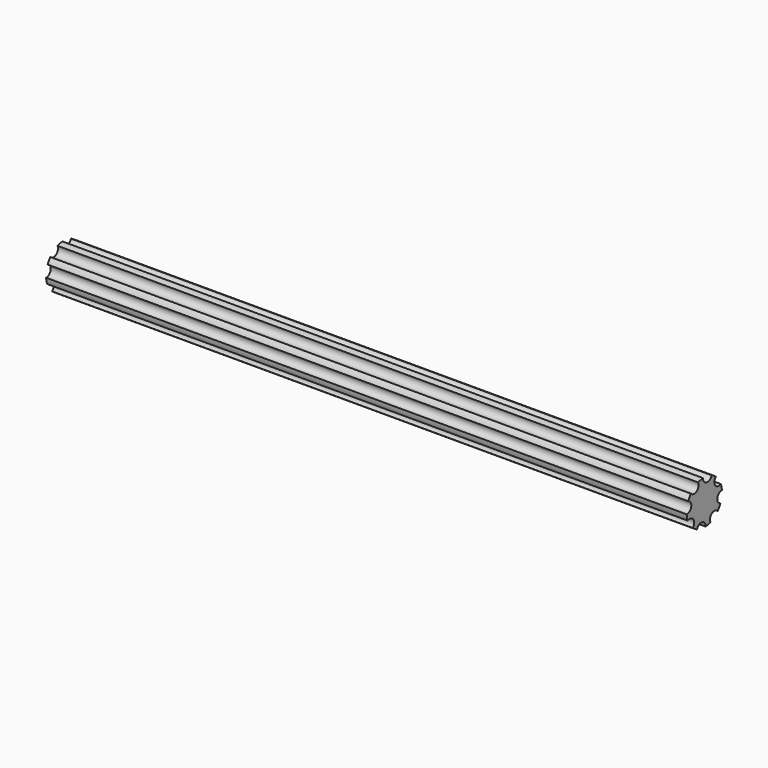
from build123d import *

# Parameters (mm, degrees)
F1_DEPTH = 290


with BuildPart() as f1:
    # F0 (on Right) → F1 (new body)
    with BuildSketch(Plane.YZ):
        with BuildLine():
            ThreePointArc((3.502015, -9.366744), (4.286922, -6.154047), (7.572535, -6.531211))
            ThreePointArc((7.572535, -6.531211), (8.420869, -5.393419), (9.099587, -4.14699))
            ThreePointArc((9.099587, -4.14699), (7.38288, -1.320257), (9.972854, 0.736327))
            ThreePointArc((9.972854, 0.736327), (9.768177, 2.140731), (9.366744, 3.502015))
            ThreePointArc((9.366744, 3.502015), (6.154047, 4.286922), (6.531211, 7.572535))
            ThreePointArc((6.531211, 7.572535), (5.393419, 8.420869), (4.14699, 9.099587))
            ThreePointArc((4.14699, 9.099587), (1.320257, 7.38288), (-0.736327, 9.972854))
            ThreePointArc((-0.736327, 9.972854), (-2.140731, 9.768177), (-3.502015, 9.366744))
            ThreePointArc((-3.502015, 9.366744), (-4.286922, 6.154047), (-7.572535, 6.531211))
            ThreePointArc((-7.572535, 6.531211), (-8.420869, 5.393419), (-9.099587, 4.14699))
            ThreePointArc((-9.099587, 4.14699), (-7.38288, 1.320257), (-9.972854, -0.736327))
            ThreePointArc((-9.972854, -0.736327), (-9.768177, -2.140731), (-9.366744, -3.502015))
            ThreePointArc((-9.366744, -3.502015), (-6.154047, -4.286922), (-6.531211, -7.572535))
            ThreePointArc((-6.531211, -7.572535), (-5.393419, -8.420869), (-4.14699, -9.099587))
            ThreePointArc((-4.14699, -9.099587), (-1.320257, -7.38288), (0.736327, -9.972854))
            ThreePointArc((0.736327, -9.972854), (2.140731, -9.768177), (3.502015, -9.366744))
        make_face()
    extrude(amount=F1_DEPTH)


solid = f1.part
